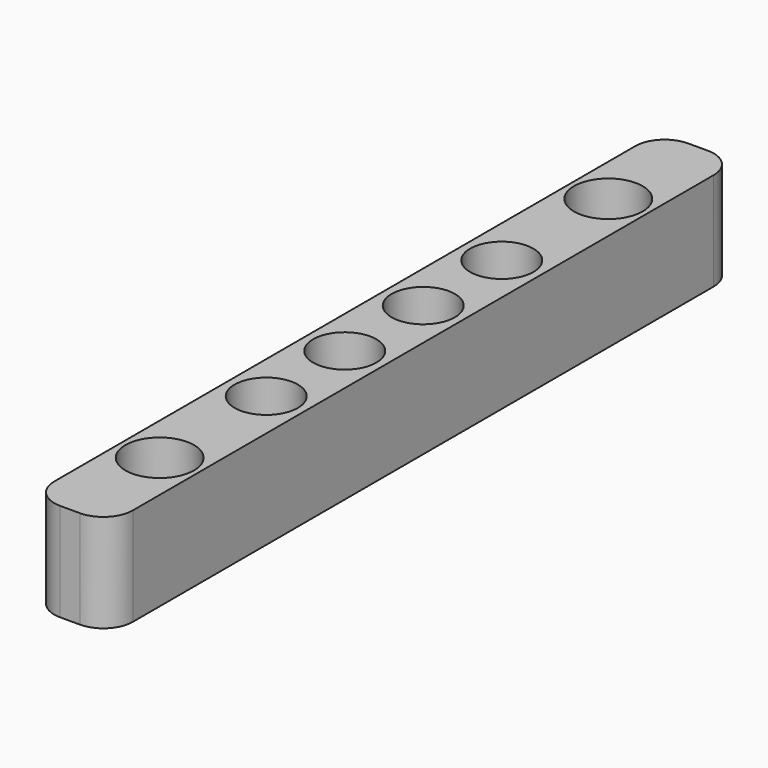
from build123d import *

# Parameters (mm, degrees)
F0_W           = 8
F0_H           = 80
F0_R           = 3.225
F1_DEPTH       = 10
F3_D           = 4
F3_CBORE_D     = 7
F3_CBORE_DEPTH = 4
F4_R           = 3
F2_R           = 3.225
F5_DEPTH       = 6
F6_D           = 4


with BuildPart() as f1:
    # F0 (on Top) → F1 (new body)
    with BuildSketch(Plane.XY):
        Rectangle(F0_W, F0_H)
        with Locations((0, -15)):
            Circle(F0_R, mode=Mode.SUBTRACT)
        with Locations((0, -5)):
            Circle(F0_R, mode=Mode.SUBTRACT)
        with Locations((0, 5)):
            Circle(F0_R, mode=Mode.SUBTRACT)
        with Locations((0, 15)):
            Circle(F0_R, mode=Mode.SUBTRACT)
        with Locations((0, 5)):
            Circle(F0_R)
        with Locations((0, -5)):
            Circle(F0_R)
        with Locations((0, 15)):
            Circle(F0_R)
        with Locations((0, -15)):
            Circle(F0_R)
    extrude(amount=F1_DEPTH)

    # F3 (through all)
    with Locations(Plane.XY.offset(10)):
        with Locations((0, 28.575), (0, -28.575)):
            CounterBoreHole(F3_D / 2, F3_CBORE_D / 2, F3_CBORE_DEPTH)

    # F4
    f4_edges = [f1.edges().sort_by_distance(p)[0] for p in [
        (-4, 40, 5),
        (4, 40, 5),
        (-4, -40, 5),
        (4, -40, 5),
    ]]
    fillet(f4_edges, radius=F4_R)

    # F2 (on face) → F5 (cut)
    with BuildSketch(Plane.XY.offset(10)):
        with Locations((0, -5)):
            Circle(F2_R)
        with Locations((0, 5)):
            Circle(F2_R)
        with Locations((0, 15)):
            Circle(F2_R)
        with Locations((0, -15)):
            Circle(F2_R)
    extrude(amount=-F5_DEPTH, mode=Mode.SUBTRACT)

    # F6 (through all)
    with Locations(Plane(origin=(0, 0, 0), x_dir=(1, 0, 0), z_dir=(0, 0, -1))):
        with Locations((0, 15), (0, 5), (0, -5), (0, -15)):
            Hole(F6_D / 2)


solid = f1.part
